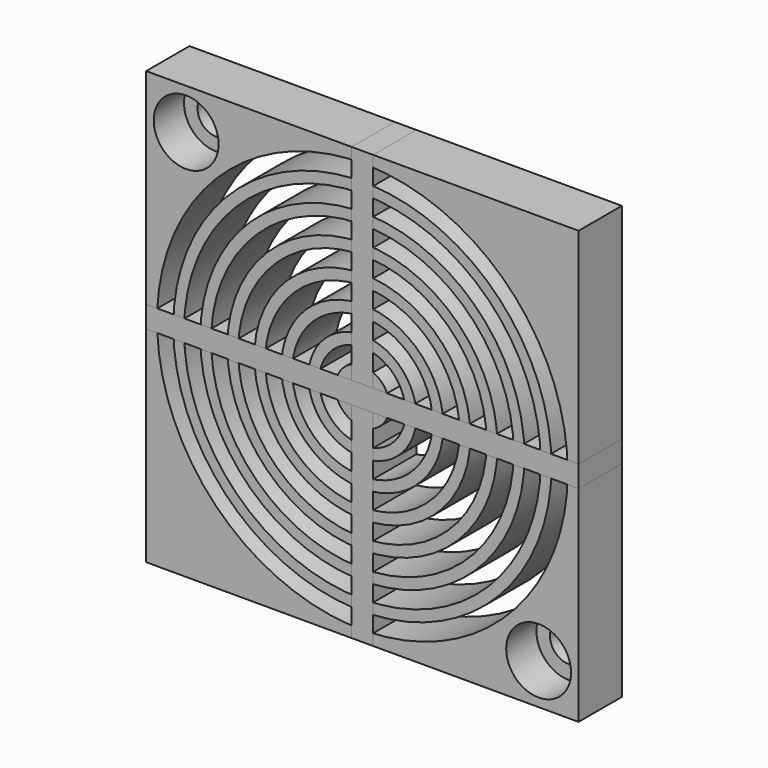
from build123d import *

# Parameters (mm, degrees)
F0_W      = 40
F0_H      = 40
F0_R      = 19
F1_DEPTH  = 5
F3_R      = 1.75
F4_DEPTH  = 5
F2_R      = 3
F5_DEPTH  = 3.5
F7_COUNT  = 2
F9_R      = 10
F9_R_2    = 9
F19_DEPTH = 5
F10_R     = 5
F10_R_2   = 4
F11_R     = 7.5
F11_R_2   = 6.5
F12_R     = 2.5
F12_R_2   = 1.5
F13_R     = 2.5
F14_R     = 12.5
F14_R_2   = 11.5
F15_R     = 15
F15_R_2   = 14
F16_R     = 17.5
F16_R_2   = 16.5
F17_W     = 2
F17_H     = 40
F18_W     = 40
F18_H     = 2


with BuildPart() as f1:
    # F0 (on Front) → F1 (new body)
    with BuildSketch(Plane.XZ):
        Rectangle(F0_W, F0_H)
        Circle(F0_R, mode=Mode.SUBTRACT)
    extrude(amount=F1_DEPTH)


with BuildPart() as f4:
    # F3 (on face) → F4 (new body)
    with BuildSketch(Plane(origin=(0, 0, 0), x_dir=(-1, 0, 0), z_dir=(0, 1, 0))):
        with Locations((16.3023483751, 16.1759720192)):
            Circle(F3_R)
    extrude(amount=-F4_DEPTH)


with BuildPart() as f5:
    # F2 (on face) → F5 (new body)
    with BuildSketch(Plane.XZ.offset(5)):
        with Locations((-16.3040937899, 16.2168404302)):
            Circle(F2_R)
    extrude(amount=-F5_DEPTH)


with BuildPart() as f7_1:
    # F7: instance of F4
    add(f4.part.rotate(Axis((0, -5.2183736116, 0), (0, -1, 0)), 1 * 360 / F7_COUNT))


with BuildPart() as f7_2:
    # F7: instance of F5
    add(f5.part.rotate(Axis((0, -5.2183736116, 0), (0, -1, 0)), 1 * 360 / F7_COUNT))


with BuildPart() as f1_1:
    add(f1.part)

    # F8: cut F7_2, F7_1, F5, F4
    add(f7_2.part, mode=Mode.SUBTRACT)
    add(f7_1.part, mode=Mode.SUBTRACT)
    add(f5.part, mode=Mode.SUBTRACT)
    add(f4.part, mode=Mode.SUBTRACT)


with BuildPart() as f19:
    # F9 (on face) → F19 (new body)
    with BuildSketch(Plane.XZ.offset(5)):
        Circle(F9_R)
        Circle(F9_R_2, mode=Mode.SUBTRACT)
    extrude(amount=-F19_DEPTH)


with BuildPart() as f19b:
    # F10 (on face) → F19, piece 2 (new body)
    with BuildSketch(Plane.XZ.offset(5)):
        Circle(F10_R)
        Circle(F10_R_2, mode=Mode.SUBTRACT)
    extrude(amount=-F19_DEPTH)


with BuildPart() as f19c:
    # F11 (on face) → F19, piece 3 (new body)
    with BuildSketch(Plane.XZ.offset(5)):
        Circle(F11_R)
        Circle(F11_R_2, mode=Mode.SUBTRACT)
    extrude(amount=-F19_DEPTH)


with BuildPart() as f19d:
    # F12 (on face) → F19, piece 4 (new body)
    with BuildSketch(Plane.XZ.offset(5)):
        Circle(F12_R)
        Circle(F12_R_2, mode=Mode.SUBTRACT)
    extrude(amount=-F19_DEPTH)


with BuildPart() as f19e:
    # F13 (on face) → F19, piece 5 (new body)
    with BuildSketch(Plane.XZ.offset(5)):
        Circle(F13_R)
    extrude(amount=-F19_DEPTH)


with BuildPart() as f19f:
    # F14 (on face) → F19, piece 6 (new body)
    with BuildSketch(Plane.XZ.offset(5)):
        Circle(F14_R)
        Circle(F14_R_2, mode=Mode.SUBTRACT)
    extrude(amount=-F19_DEPTH)


with BuildPart() as f19g:
    # F15 (on face) → F19, piece 7 (new body)
    with BuildSketch(Plane.XZ.offset(5)):
        Circle(F15_R)
        Circle(F15_R_2, mode=Mode.SUBTRACT)
    extrude(amount=-F19_DEPTH)


with BuildPart() as f19h:
    # F16 (on face) → F19, piece 8 (new body)
    with BuildSketch(Plane.XZ.offset(5)):
        Circle(F16_R)
        Circle(F16_R_2, mode=Mode.SUBTRACT)
    extrude(amount=-F19_DEPTH)


with BuildPart() as f19i:
    # F17 (on face) → F19, piece 9 (new body)
    with BuildSketch(Plane.XZ.offset(5)):
        Rectangle(F17_W, F17_H)
    extrude(amount=-F19_DEPTH)


with BuildPart() as f19j:
    # F18 (on face) → F19, piece 10 (new body)
    with BuildSketch(Plane.XZ.offset(5)):
        Rectangle(F18_W, F18_H)
    extrude(amount=-F19_DEPTH)


solid = Compound([f1_1.part, f19.part, f19b.part, f19c.part, f19d.part, f19e.part, f19f.part, f19g.part, f19h.part, f19i.part, f19j.part])
